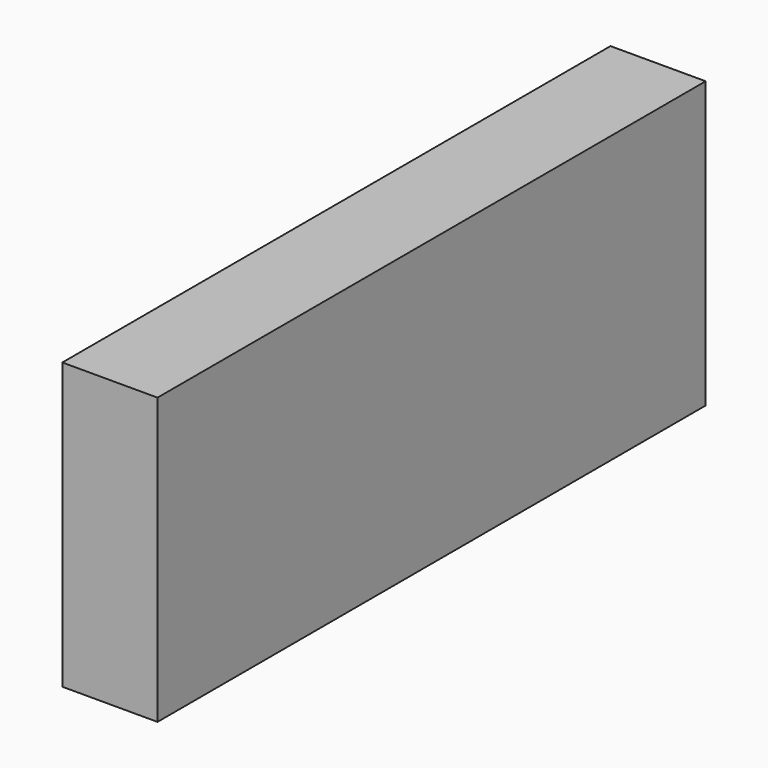
from build123d import *

# Parameters (mm, degrees)
F0_W     = 254
F0_H     = 762
F1_DEPTH = 914.4
F2_W     = 25.4
F2_H     = 25.4
F3_DEPTH = 0.254


with BuildPart() as f1:
    # F0 (on Front) → F1 (new body, symmetric)
    with BuildSketch(Plane.XZ):
        Rectangle(F0_W, F0_H)
    extrude(amount=F1_DEPTH, both=True)

    # F2 (on face) → F3 (join)
    with BuildSketch(Plane(origin=(-127, 0, 0), x_dir=(0, -1, 0), z_dir=(-1, 0, 0))):
        with Locations((749.3, 342.9)):
            Rectangle(F2_W, F2_H)
        with Locations((-749.3, 342.9)):
            Rectangle(F2_W, F2_H)
    extrude(amount=F3_DEPTH)


solid = f1.part
